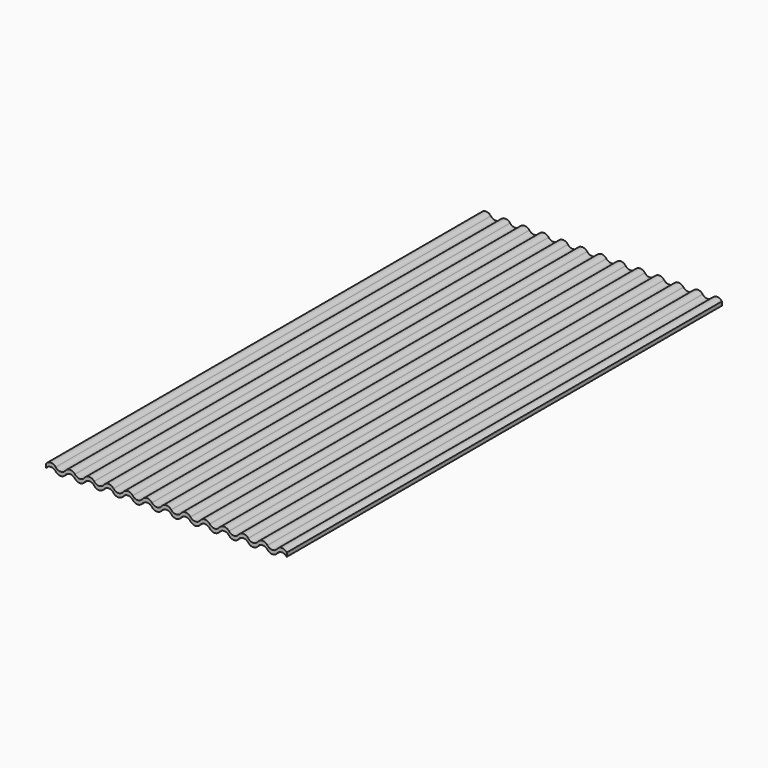
from build123d import *

# Parameters (mm, degrees)
F1_DEPTH = 113


with BuildPart() as f1:
    # F0 (on Front) → F1 (new body)
    with BuildSketch(Plane.XZ):
        with BuildLine():
            ThreePointArc((-21, -0.4), (-20, 0.1), (-19, -0.4))
            ThreePointArc((-19, -0.4), (-18, -0.9), (-17, -0.4))
            ThreePointArc((-17, -0.4), (-16, 0.1), (-15, -0.4))
            ThreePointArc((-15, -0.4), (-14, -0.9), (-13, -0.4))
            ThreePointArc((-13, -0.4), (-12, 0.1), (-11, -0.4))
            ThreePointArc((-11, -0.4), (-10, -0.9), (-9, -0.4))
            ThreePointArc((-9, -0.4), (-8, 0.1), (-7, -0.4))
            ThreePointArc((-7, -0.4), (-6, -0.9), (-5, -0.4))
            ThreePointArc((-5, -0.4), (-4, 0.1), (-3, -0.4))
            ThreePointArc((-3, -0.4), (-2, -0.9), (-1, -0.4))
            ThreePointArc((-1, -0.4), (0, 0.1), (1, -0.4))
            ThreePointArc((1, -0.4), (2, -0.9), (3, -0.4))
            ThreePointArc((3, -0.4), (4, 0.1), (5, -0.4))
            ThreePointArc((5, -0.4), (6, -0.9), (7, -0.4))
            ThreePointArc((7, -0.4), (8, 0.1), (9, -0.4))
            ThreePointArc((9, -0.4), (10, -0.9), (11, -0.4))
            ThreePointArc((11, -0.4), (12, 0.1), (13, -0.4))
            ThreePointArc((13, -0.4), (14, -0.9), (15, -0.4))
            ThreePointArc((15, -0.4), (16, 0.1), (17, -0.4))
            ThreePointArc((17, -0.4), (18, -0.9), (19, -0.4))
            ThreePointArc((19, -0.4), (20, 0.1), (21, -0.4))
            ThreePointArc((21, -0.4), (22, -0.9), (23, -0.4))
            ThreePointArc((23, -0.4), (24, 0.1), (25, -0.4))
            Line((25, -0.4), (25, 0.4))
            ThreePointArc((25, 0.4), (24, 0.9), (23, 0.4))
            ThreePointArc((23, 0.4), (22, -0.1), (21, 0.4))
            ThreePointArc((21, 0.4), (20, 0.9), (19, 0.4))
            ThreePointArc((19, 0.4), (18, -0.1), (17, 0.4))
            ThreePointArc((17, 0.4), (16, 0.9), (15, 0.4))
            ThreePointArc((15, 0.4), (14, -0.1), (13, 0.4))
            ThreePointArc((13, 0.4), (12, 0.9), (11, 0.4))
            ThreePointArc((11, 0.4), (10, -0.1), (9, 0.4))
            ThreePointArc((9, 0.4), (8, 0.9), (7, 0.4))
            ThreePointArc((7, 0.4), (6, -0.1), (5, 0.4))
            ThreePointArc((5, 0.4), (4, 0.9), (3, 0.4))
            ThreePointArc((3, 0.4), (2, -0.1), (1, 0.4))
            ThreePointArc((1, 0.4), (0, 0.9), (-1, 0.4))
            ThreePointArc((-1, 0.4), (-2, -0.1), (-3, 0.4))
            ThreePointArc((-3, 0.4), (-4, 0.9), (-5, 0.4))
            ThreePointArc((-5, 0.4), (-6, -0.1), (-7, 0.4))
            ThreePointArc((-7, 0.4), (-8, 0.9), (-9, 0.4))
            ThreePointArc((-9, 0.4), (-10, -0.1), (-11, 0.4))
            ThreePointArc((-11, 0.4), (-12, 0.9), (-13, 0.4))
            ThreePointArc((-13, 0.4), (-14, -0.1), (-15, 0.4))
            ThreePointArc((-15, 0.4), (-16, 0.9), (-17, 0.4))
            ThreePointArc((-17, 0.4), (-18, -0.1), (-19, 0.4))
            ThreePointArc((-19, 0.4), (-20, 0.9), (-21, 0.4))
            ThreePointArc((-21, 0.4), (-22, -0.1), (-23, 0.4))
            ThreePointArc((-23, 0.4), (-24, 0.9), (-25, 0.4))
            Line((-25, 0.4), (-25, -0.4))
            ThreePointArc((-25, -0.4), (-24, 0.1), (-23, -0.4))
            ThreePointArc((-23, -0.4), (-22, -0.9), (-21, -0.4))
        make_face()
    extrude(amount=F1_DEPTH)


solid = f1.part
